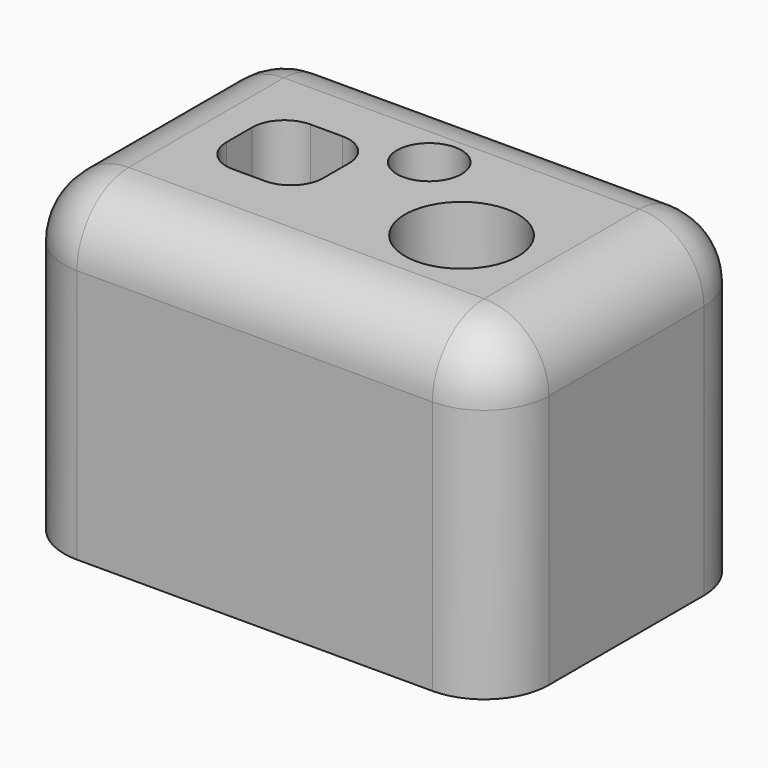
from build123d import *

# Parameters (mm, degrees)
F0_W     = 60
F0_H     = 40
F1_DEPTH = 39.5
F2_R     = 8
F3_W     = 12
F3_H     = 12
F4_DEPTH = 15
F5_R     = 4
F6_R     = 4
F6_R_2   = 7
F7_DEPTH = 39.501


with BuildPart() as f1:
    # F0 (on Top) → F1 (new body)
    with BuildSketch(Plane.XY):
        with Locations((30, 20)):
            Rectangle(F0_W, F0_H)
    extrude(amount=F1_DEPTH)

    # F2
    f2_edges = [f1.edges().sort_by_distance(p)[0] for p in [
        (0, 20, 39.5),
        (30, 0, 39.5),
        (60, 20, 39.5),
        (30, 40, 39.5),
        (60, 0, 19.75),
        (60, 40, 19.75),
        (0, 0, 19.75),
        (0, 40, 19.75),
    ]]
    fillet(f2_edges, radius=F2_R)

    # F3 (on face) → F4 (cut)
    with BuildSketch(Plane.XY.offset(39.5)):
        with Locations((18.08178, 20)):
            Rectangle(F3_W, F3_H)
    extrude(amount=-F4_DEPTH, mode=Mode.SUBTRACT)

    # F5
    f5_edges = [f1.edges().sort_by_distance(p)[0] for p in [
        (12.08178, 26, 32),
        (12.08178, 14, 32),
        (24.08178, 26, 32),
        (24.08178, 14, 32),
    ]]
    fillet(f5_edges, radius=F5_R)

    # F6 (on face) → F7 (cut, through all)
    with BuildSketch(Plane.XY.offset(39.5)):
        with Locations((30, 27)):
            Circle(F6_R)
        with Locations((42, 17)):
            Circle(F6_R_2)
    extrude(amount=-F7_DEPTH, mode=Mode.SUBTRACT)


solid = f1.part
